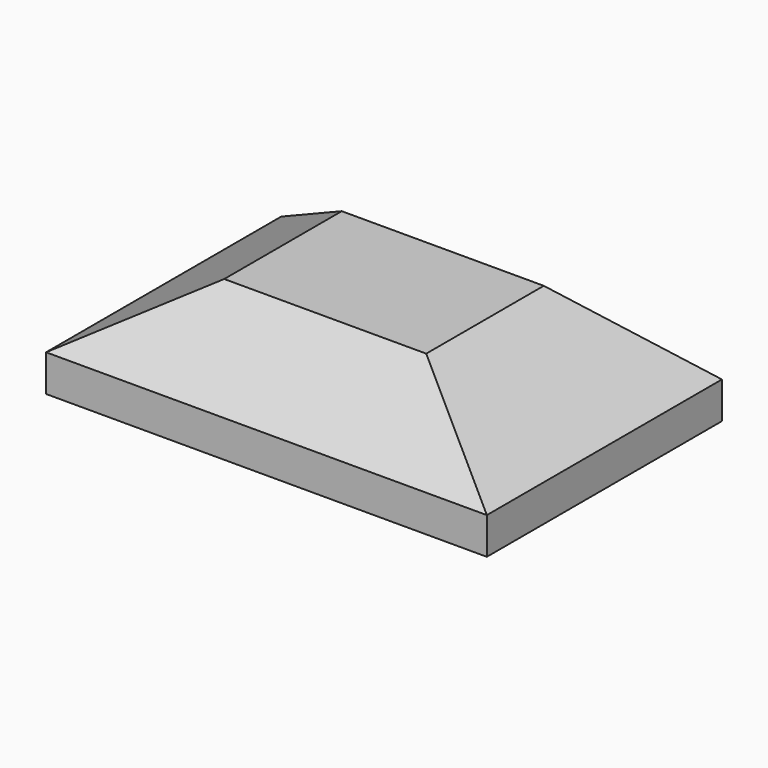
from build123d import *

# Parameters (mm, degrees)
F0_W      = 76.2
F0_H      = 50.8
F1_DEPTH  = 6.35
F1_FACE_W = 76.2
F1_FACE_H = 50.8
F3_W      = 34.925
F3_H      = 25.4


with BuildPart() as f1:
    # F0 (on Top) → F1 (new body)
    with BuildSketch(Plane.XY):
        with Locations((38.1, 25.4)):
            Rectangle(F0_W, F0_H)
    extrude(amount=-F1_DEPTH)

    # F1_face (on face) → F4 section 0
    with BuildSketch(Plane(origin=(38.1, 25.4, 0), x_dir=(1, 0, 0), z_dir=(0, 0, 1))):
        Rectangle(F1_FACE_W, F1_FACE_H)
    # F3 (on offset) → F4 section 1
    with BuildSketch(Plane.XY.offset(12.7)):
        with Locations((38.1, 25.4)):
            Rectangle(F3_W, F3_H)
    loft()


solid = f1.part
